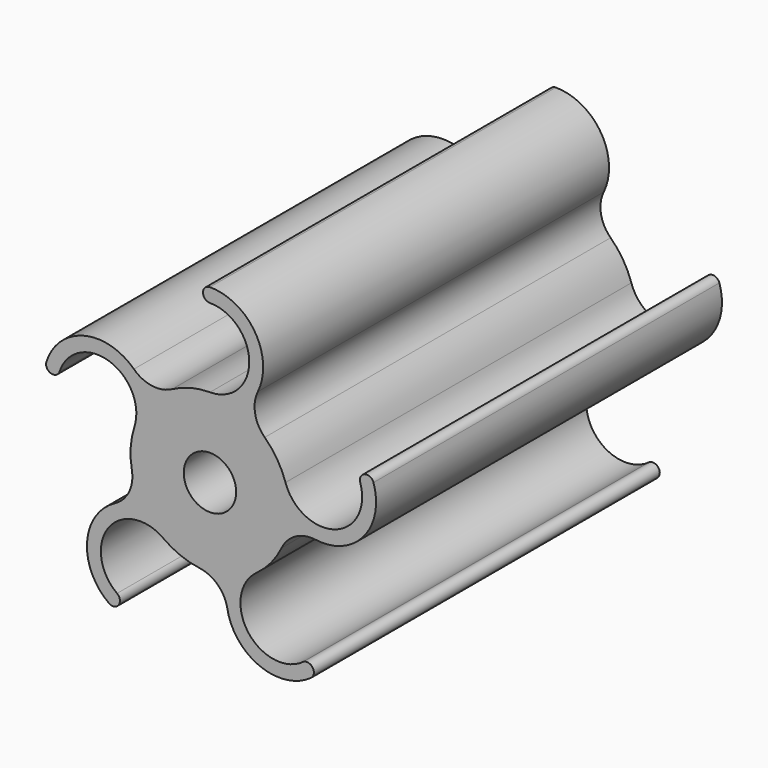
from build123d import *

# Parameters (mm, degrees)
F0_R     = 2
F1_DEPTH = 33


with BuildPart() as f1:
    # F0 (on Front) → F1 (new body)
    with BuildSketch(Plane.XZ):
        with BuildLine():
            ThreePointArc((0, 12.0625), (3, 9.0625), (0, 6.0625))
            ThreePointArc((0, 6.0625), (-1.486924, 5.877326), (-2.883015, 5.333117))
            ThreePointArc((-2.883015, 5.333117), (-4.408233, 5.055069), (-5.804101, 5.729721))
            ThreePointArc((-5.804101, 5.729721), (-9.606608, 6.74108), (-12.482617, 4.055848))
            ThreePointArc((-12.482617, 4.055848), (-12.141533, 3.386434), (-11.472119, 3.727517))
            ThreePointArc((-11.472119, 3.727517), (-7.691899, 5.653636), (-5.76578, 1.873416))
            ThreePointArc((-5.76578, 1.873416), (-6.049154, 0.402045), (-5.962996, -1.093886))
            ThreePointArc((-5.962996, -1.093886), (-6.169875, -2.630377), (-7.242855, -3.749447))
            ThreePointArc((-7.242855, -3.749447), (-9.379753, -7.053318), (-7.714681, -10.618348))
            ThreePointArc((-7.714681, -10.618348), (-6.97263, -10.500819), (-7.09016, -9.758767))
            ThreePointArc((-7.09016, -9.758767), (-7.753855, -5.568361), (-3.563448, -4.904666))
            ThreePointArc((-3.563448, -4.904666), (-2.251659, -5.628849), (-0.802319, -6.009175))
            ThreePointArc((-0.802319, -6.009175), (0.595041, -6.680731), (1.327771, -8.047007))
            ThreePointArc((1.327771, -8.047007), (3.809601, -11.100271), (7.714681, -10.618348))
            ThreePointArc((7.714681, -10.618348), (7.832211, -9.876297), (7.09016, -9.758767))
            ThreePointArc((7.09016, -9.758767), (2.899753, -9.095072), (3.563448, -4.904666))
            ThreePointArc((3.563448, -4.904666), (4.657553, -3.880865), (5.467135, -2.619988))
            ThreePointArc((5.467135, -2.619988), (6.537631, -1.498542), (8.063462, -1.223877))
            ThreePointArc((8.063462, -1.223877), (11.734216, 0.192974), (12.482617, 4.055848))
            ThreePointArc((12.482617, 4.055848), (11.813203, 4.396932), (11.472119, 3.727517))
            ThreePointArc((11.472119, 3.727517), (9.546001, -0.052703), (5.76578, 1.873416))
            ThreePointArc((5.76578, 1.873416), (5.130184, 3.230343), (4.181195, 4.389934))
            ThreePointArc((4.181195, 4.389934), (3.445437, 5.754581), (3.655723, 7.29061))
            ThreePointArc((3.655723, 7.29061), (3.442543, 11.219535), (0, 13.125))
            ThreePointArc((0, 13.125), (-0.53125, 12.59375), (0, 12.0625))
        make_face()
        Circle(F0_R, mode=Mode.SUBTRACT)
    extrude(amount=F1_DEPTH)


solid = f1.part
